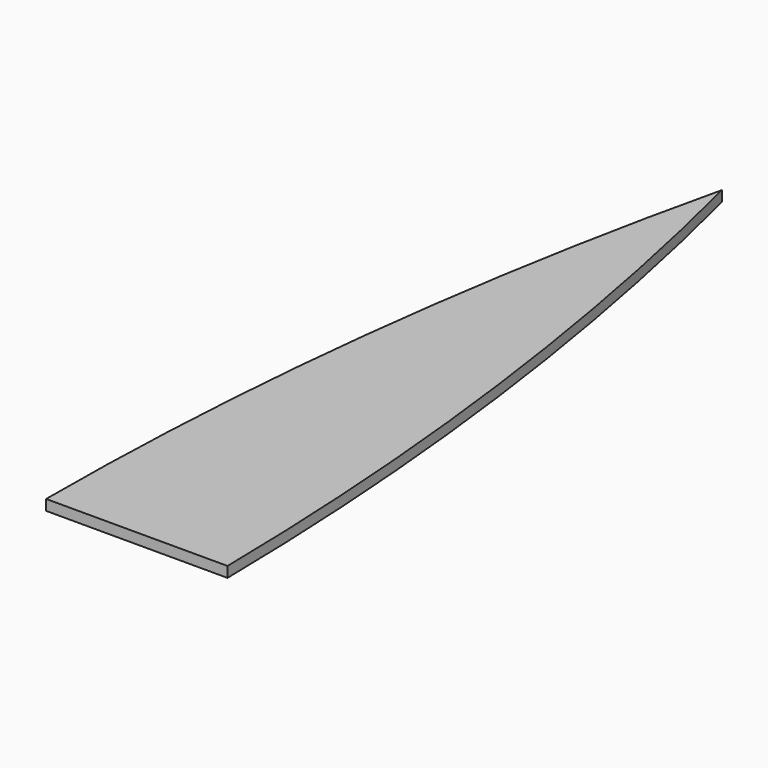
from build123d import *

# Parameters (mm, degrees)
F1_DEPTH = 3


with BuildPart() as f1:
    # F0 (on Top) → F1 (new body)
    with BuildSketch(Plane.XY):
        with BuildLine():
            ThreePointArc((-27.224978, 210.012436), (-45.535194, 105.714931), (-51.666, 0))
            Line((-51.666, 0), (0, 0))
            ThreePointArc((0, 0), (-7.513438, 105.796869), (-27.224978, 210.012436))
        make_face()
    extrude(amount=F1_DEPTH)


solid = f1.part
